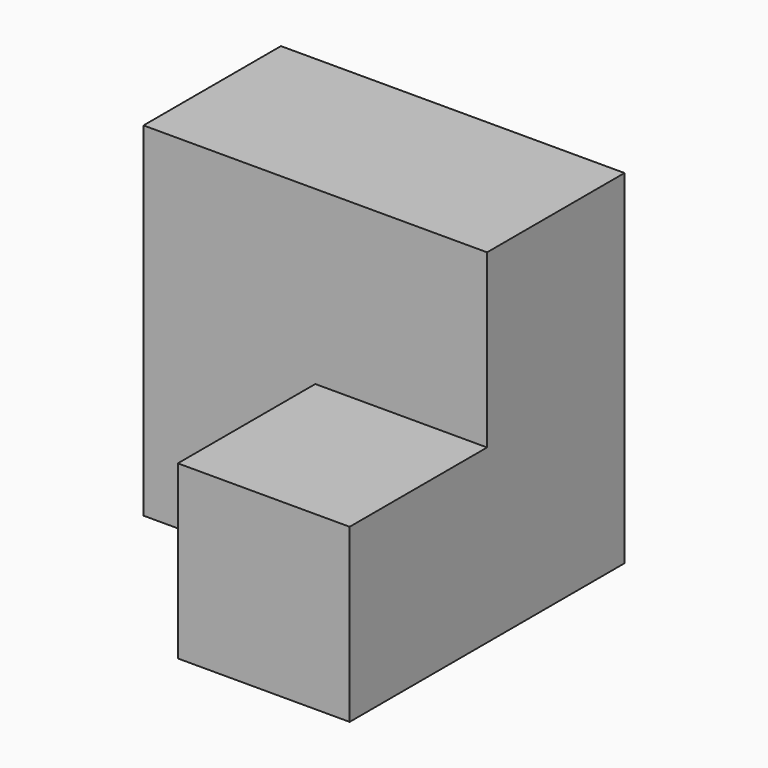
from build123d import *

# Parameters (mm, degrees)
F0_W     = 50.8
F0_H     = 50.8
F1_DEPTH = 50.8
F3_DEPTH = 25.4
F4_W     = 25.4
F4_H     = 25.4
F5_DEPTH = 25.4


with BuildPart() as f1:
    # F0 (on Front) → F1 (new body)
    with BuildSketch(Plane.XZ):
        with Locations((-25.4, 25.4)):
            Rectangle(F0_W, F0_H)
    extrude(amount=F1_DEPTH)

    # F2 (on face) → F3 (cut)
    with BuildSketch(Plane.XZ.offset(50.8)):
        Polygon((-25.4, 50.8), (-50.8, 50.8), (-50.8, 0), (-25.4, 0), (-25.4, 25.4), align=None)
    extrude(amount=-F3_DEPTH, mode=Mode.SUBTRACT)

    # F4 (on face) → F5 (cut)
    with BuildSketch(Plane.XZ.offset(50.8)):
        with Locations((-12.7, 38.1)):
            Rectangle(F4_W, F4_H)
    extrude(amount=-F5_DEPTH, mode=Mode.SUBTRACT)


solid = f1.part
